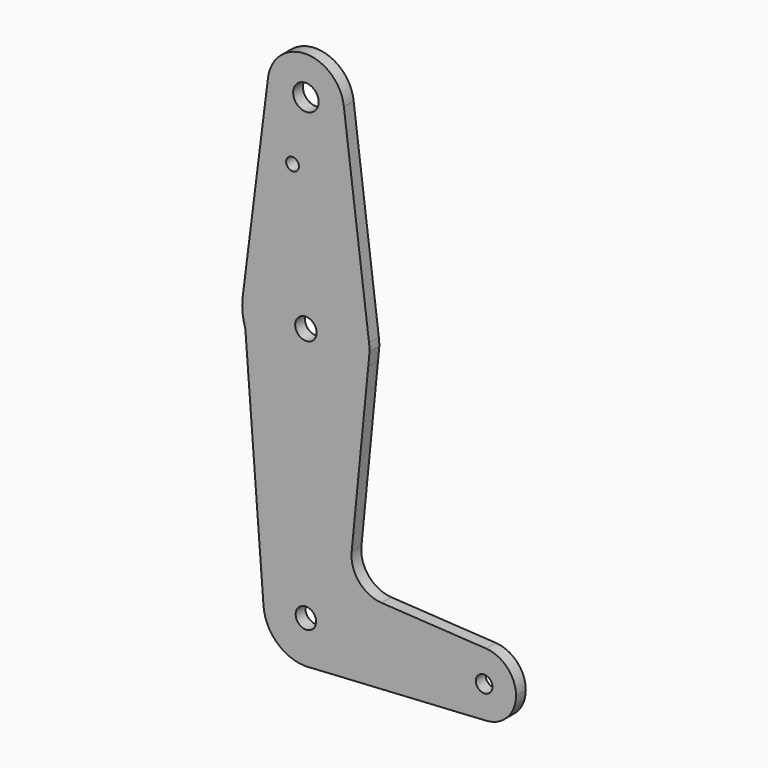
from build123d import *

# Parameters (mm, degrees)
F0_R     = 3.175
F0_R_2   = 2.0685474601
F0_R_3   = 1.5875
F0_R_4   = 2.5476479388
F0_R_5   = 2.6726901354
F1_DEPTH = 3.048


with BuildPart() as f1:
    # F0 (on Front) → F1 (new body)
    with BuildSketch(Plane.XZ):
        with BuildLine():
            Line((-21.6636057545, -51.4591733306), (-23.1809898733, -51.5489996705))
            ThreePointArc((-23.1809898733, -51.5489996705), (-22.4206843139, -51.5313424184), (-21.6636057545, -51.4591733306))
        make_face()
        with BuildLine():
            ThreePointArc((-32.4970287049, 74.5311745653), (-23.6424888439, 63.8353690521), (-13.5215895406, 73.3417105681))
            ThreePointArc((-13.5215895406, 73.3417105681), (-13.5360224074, 73.8658649403), (-13.5792772688, 74.3884308505))
            ThreePointArc((-13.5792772688, 74.3884308505), (-22.9747207889, 82.8664394295), (-32.4970287049, 74.5311745653))
        make_face()
        with Locations((-23.0465895406, 73.3417105681)):
            Circle(F0_R, mode=Mode.SUBTRACT)
        with BuildLine():
            ThreePointArc((29.3409104594, -40.9582894319), (27.1800614631, -35.5145582269), (21.8740230436, -33.0347529711))
            ThreePointArc((21.8740230436, -33.0347529711), (13.4659104973, -40.9575138662), (21.8724746321, -48.8819177076))
            ThreePointArc((21.8724746321, -48.8819177076), (27.1795295337, -46.4025850419), (29.3409104594, -40.9582894319))
        make_face()
        with Locations((21.4034104594, -40.9582894319)):
            Circle(F0_R_2, mode=Mode.SUBTRACT)
        with BuildLine():
            ThreePointArc((-13.5792772688, 74.3884308505), (-13.5360224074, 73.8658649403), (-13.5215895406, 73.3417105681))
            ThreePointArc((-13.5215895406, 73.3417105681), (-23.6424888439, 63.8353690521), (-32.4970287049, 74.5311745653))
            Line((-32.4970287049, 74.5311745653), (-38.7358133779, 24.9632556085))
            ThreePointArc((-38.7358133779, 24.9632556085), (-22.8260426522, 38.4151784964), (-7.2961447937, 24.5264310211))
            Line((-7.2961447937, 24.5264310211), (-13.5792772688, 74.3884308505))
        make_face()
        with Locations((-26.3805408031, 57.5937105681)):
            Circle(F0_R_3, mode=Mode.SUBTRACT)
        with BuildLine():
            Line((-11.6438627817, -22.7707620634), (-7.4982554565, 19.3378172786))
            ThreePointArc((-7.4982554565, 19.3378172786), (-22.1724097758, 6.6907978266), (-38.1483101737, 17.6474630347))
            Line((-38.1483101737, 17.6474630347), (-33.6073514754, -41.7654537052))
            ThreePointArc((-33.6073514754, -41.7654537052), (-23.4504654095, -30.3744294984), (-12.4550265394, -40.9582894319))
            ThreePointArc((-12.4550265394, -40.9582894319), (-15.0832621359, -47.9415997826), (-21.6636057545, -51.4591733306))
            Line((-21.6636057545, -51.4591733306), (21.8724746321, -48.8819177076))
            ThreePointArc((21.8724746321, -48.8819177076), (13.4659104973, -40.9575138662), (21.8740230436, -33.0347529711))
            Line((21.8740230436, -33.0347529711), (-4.2032791087, -31.4859109085))
            ThreePointArc((-4.2032791087, -31.4859109085), (-9.7782716726, -28.711792626), (-11.6438627817, -22.7707620634))
        make_face()
        with BuildLine():
            ThreePointArc((-12.4550265394, -40.9582894319), (-23.4504654095, -30.3744294984), (-33.6073514754, -41.7654537052))
            ThreePointArc((-33.6073514754, -41.7654537052), (-30.2940764772, -48.6819634224), (-23.1809898733, -51.5489996705))
            Line((-23.1809898733, -51.5489996705), (-21.6636057545, -51.4591733306))
            ThreePointArc((-21.6636057545, -51.4591733306), (-15.0832621359, -47.9415997826), (-12.4550265394, -40.9582894319))
        make_face()
        with Locations((-23.0465895406, -40.9582894319)):
            Circle(F0_R_4, mode=Mode.SUBTRACT)
        with BuildLine():
            ThreePointArc((-13.5792772688, 74.3884308505), (-13.5360224074, 73.8658649403), (-13.5215895406, 73.3417105681))
            ThreePointArc((-13.5215895406, 73.3417105681), (-23.6424888439, 63.8353690521), (-32.4970287049, 74.5311745653))
            Line((-32.4970287049, 74.5311745653), (-38.7358133779, 24.9632556085))
            ThreePointArc((-38.7358133779, 24.9632556085), (-22.8260426522, 38.4151784964), (-7.2961447937, 24.5264310211))
            Line((-7.2961447937, 24.5264310211), (-13.5792772688, 74.3884308505))
        make_face()
        with Locations((-26.3805408031, 57.5937105681)):
            Circle(F0_R_3, mode=Mode.SUBTRACT)
        with BuildLine():
            ThreePointArc((-7.1719726636, 22.6520011355), (-7.206308529, 23.591054398), (-7.2961447937, 24.5264310211))
            ThreePointArc((-7.2961447937, 24.5264310211), (-22.8260426522, 38.4151784964), (-38.7358133779, 24.9632556085))
            Line((-38.7358133779, 24.9632556085), (-38.8465424949, 24.0834990238))
            ThreePointArc((-38.8465424949, 24.0834990238), (-38.8289847149, 20.8295109418), (-38.1483101737, 17.6474630347))
            ThreePointArc((-38.1483101737, 17.6474630347), (-22.1724097758, 6.6907978266), (-7.4982554565, 19.3378172786))
            Line((-7.4982554565, 19.3378172786), (-7.1719726636, 22.6520011355))
        make_face()
        with Locations((-23.0465895406, 22.5417105681)):
            Circle(F0_R_5, mode=Mode.SUBTRACT)
    extrude(amount=F1_DEPTH)


solid = f1.part
